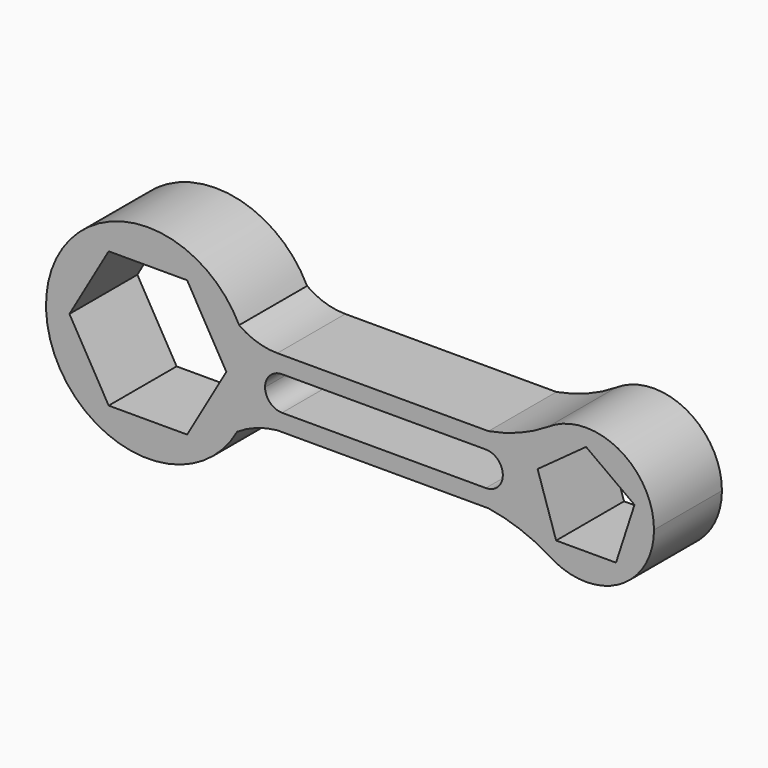
from build123d import *

# Parameters (mm, degrees)
F1_DEPTH = 25


with BuildPart() as f1:
    # F0 (on Front) → F1 (new body)
    with BuildSketch(Plane.XZ):
        with BuildLine():
            ThreePointArc((-49.045524, -14.472526), (-46.269099, -7.471705), (-45.323765, 0))
            ThreePointArc((-45.323765, 0), (-46.116799, 6.852234), (-48.453973, 13.342198))
            ThreePointArc((-48.453973, 13.342198), (-105.316983, 0.637882), (-49.045524, -14.472526))
        make_face()
        Polygon((-98.417776, 0), (-86.870771, 20), (-63.77676, 20), (-52.229754, 0), (-63.77676, -20), (-86.870771, -20), align=None, mode=Mode.SUBTRACT)
        with BuildLine():
            ThreePointArc((-48.453973, 13.342198), (-46.116799, 6.852234), (-45.323765, 0))
            ThreePointArc((-45.323765, 0), (-46.269099, -7.471705), (-49.045524, -14.472526))
            ThreePointArc((-49.045524, -14.472526), (-43.387683, -11.643077), (-37.214165, -10.262998))
            Line((-37.214165, -10.262998), (24.944222, -10.262998))
            ThreePointArc((24.944222, -10.262998), (34.03408, -12.573077), (42.50839, -16.591542))
            ThreePointArc((42.50839, -16.591542), (33.676235, 0), (42.50839, 16.591542))
            ThreePointArc((42.50839, 16.591542), (34.063025, 12.301459), (24.944222, 9.737002))
            Line((24.944222, 9.737002), (-37.214165, 9.737002))
            ThreePointArc((-37.214165, 9.737002), (-43.116087, 10.660362), (-48.453973, 13.342198))
        make_face()
        with BuildLine():
            ThreePointArc((-40.823765, -0.262998), (-39.359299, 3.272535), (-35.823765, 4.737002))
            Line((-35.823765, 4.737002), (24.176235, 4.737002))
            ThreePointArc((24.176235, 4.737002), (27.711769, 3.272535), (29.176235, -0.262998))
            ThreePointArc((29.176235, -0.262998), (27.711769, -3.798532), (24.176235, -5.262998))
            Line((24.176235, -5.262998), (-35.823765, -5.262998))
            ThreePointArc((-35.823765, -5.262998), (-39.359299, -3.798532), (-40.823765, -0.262998))
        make_face(mode=Mode.SUBTRACT)
        with BuildLine():
            ThreePointArc((73.676235, 0), (63.07419, 17.654417), (42.50839, 16.591542))
            ThreePointArc((42.50839, 16.591542), (33.676235, 0), (42.50839, -16.591542))
            ThreePointArc((42.50839, -16.591542), (63.07419, -17.654417), (73.676235, 0))
        make_face()
        Polygon((53.676235, 15), (67.942083, 4.635255), (62.493014, -12.135255), (44.859456, -12.135255), (39.410387, 4.635255), align=None, mode=Mode.SUBTRACT)
    extrude(amount=F1_DEPTH)


solid = f1.part
